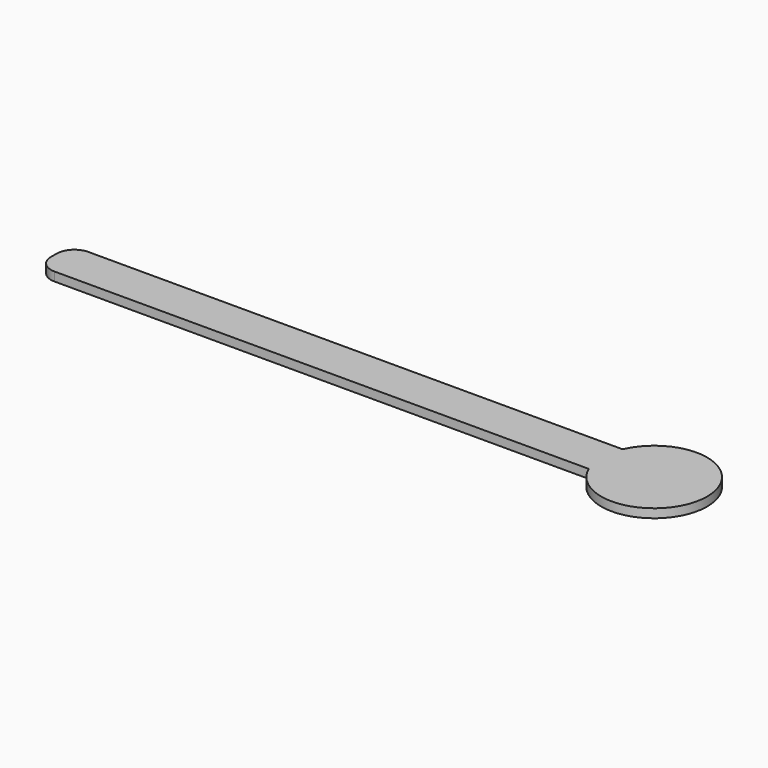
from build123d import *

# Parameters (mm, degrees)
F1_DEPTH = 3.175


with BuildPart() as f1:
    # F0 (on Top) → F1 (new body)
    with BuildSketch(Plane.XY):
        with BuildLine():
            ThreePointArc((0, 6.35), (1.859872, 1.859872), (6.35, 0))
            Line((6.35, 0), (198.440387, 0))
            ThreePointArc((198.440387, 0), (234.95, 7.62), (198.440387, 15.24))
            Line((198.440387, 15.24), (6.35, 15.24))
            ThreePointArc((6.35, 15.24), (1.859872, 13.380128), (0, 8.89))
            Line((0, 8.89), (0, 6.35))
        make_face()
    extrude(amount=F1_DEPTH)


solid = f1.part
